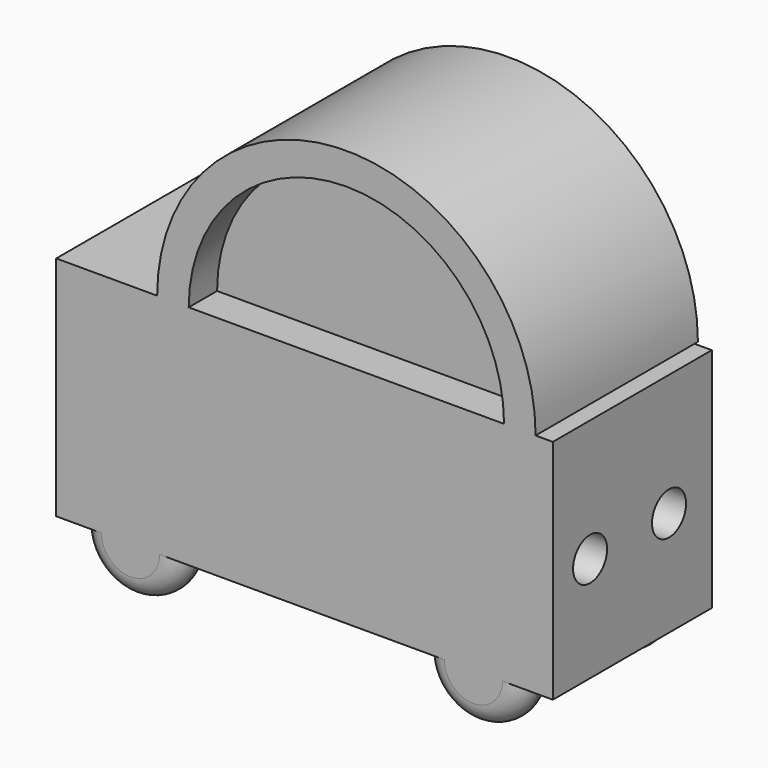
from build123d import *

# Parameters (mm, degrees)
F0_W      = 88.9
F0_H      = 40.64
F1_DEPTH  = 35.56
F3_DEPTH  = 7.62
F5_DEPTH  = 7.62
F7_DEPTH  = 36.322
F9_DEPTH  = 9.906
F11_DEPTH = 6.35
F13_DEPTH = 9.144
F14_R     = 3.81
F15_DEPTH = 6.604
F16_R     = 3.297802
F16_R_2   = 3.302
F17_DEPTH = 4.572
F18_R     = 3.679261


with BuildPart() as f1:
    # F0 (on Front) → F1 (new body)
    with BuildSketch(Plane.XZ):
        with Locations((1.685638, 1.512455)):
            Rectangle(F0_W, F0_H)
    extrude(amount=F1_DEPTH)

    # F2 (on face) → F3 (join)
    with BuildSketch(Plane.XZ.offset(35.56)):
        with BuildLine():
            Line((-20.58096, -18.807545), (-38.36096, -18.807545))
            ThreePointArc((-38.36096, -18.807545), (-29.47096, -27.697545), (-20.58096, -18.807545))
        make_face()
        with BuildLine():
            Line((40.796571, -18.807545), (23.016571, -18.807545))
            ThreePointArc((23.016571, -18.807545), (31.906571, -27.697545), (40.796571, -18.807545))
        make_face()
    extrude(amount=-F3_DEPTH)

    # F4 (on face) → F5 (join)
    with BuildSketch(Plane(origin=(0, 0, 0), x_dir=(-1, 0, 0), z_dir=(0, 1, 0))):
        with BuildLine():
            Line((-23.503698, -18.807545), (-41.283698, -18.807545))
            ThreePointArc((-41.283698, -18.807545), (-32.393698, -27.697545), (-23.503698, -18.807545))
        make_face()
        with BuildLine():
            Line((38.604519, -18.807545), (20.824519, -18.807545))
            ThreePointArc((20.824519, -18.807545), (29.714519, -27.697545), (38.604519, -18.807545))
        make_face()
    extrude(amount=-F5_DEPTH)

    # F6 (on face) → F7 (join)
    with BuildSketch(Plane.XZ.offset(35.56)):
        with BuildLine():
            Line((-24.699327, 21.832455), (43.047176, 21.832455))
            ThreePointArc((43.047176, 21.832455), (9.173924, 55.705706), (-24.699327, 21.832455))
        make_face()
    extrude(amount=-F7_DEPTH)

    # F8 (on face) → F9 (join)
    with BuildSketch(Plane.XZ.offset(35.56)):
        with BuildLine():
            Line((-18.899895, 24.207648), (34.604043, 24.207648))
            ThreePointArc((34.604043, 24.207648), (7.852074, 50.959617), (-18.899895, 24.207648))
        make_face()
    extrude(amount=-F9_DEPTH)

    # F10 (on face) → F11 (cut)
    with BuildSketch(Plane.XZ.offset(35.56)):
        with BuildLine():
            Line((-19.053006, 21.832455), (37.400854, 21.832455))
            ThreePointArc((37.400854, 21.832455), (9.173924, 50.059384), (-19.053006, 21.832455))
        make_face()
    extrude(amount=-F11_DEPTH, mode=Mode.SUBTRACT)

    # F12 (on face) → F13 (cut)
    with BuildSketch(Plane(origin=(0, 0.762, 0), x_dir=(-1, 0, 0), z_dir=(0, 1, 0))):
        with BuildLine():
            Line((-39.26131, 21.832455), (20.913462, 21.832455))
            ThreePointArc((20.913462, 21.832455), (-9.173924, 51.919841), (-39.26131, 21.832455))
        make_face()
    extrude(amount=-F13_DEPTH, mode=Mode.SUBTRACT)

    # F14 (on face) → F15 (cut)
    with BuildSketch(Plane.YZ.offset(46.135638)):
        with Locations((-27.224183, 0)):
            Circle(F14_R)
        with Locations((-9.559637, 0)):
            Circle(F14_R)
    extrude(amount=-F15_DEPTH, mode=Mode.SUBTRACT)

    # F16 (on face) → F17 (cut)
    with BuildSketch(Plane(origin=(-42.764362, 0, 0), x_dir=(0, -1, 0), z_dir=(-1, 0, 0))):
        with Locations((9.101178, 0)):
            Circle(F16_R)
        with Locations((26.068604, 0)):
            Circle(F16_R_2)
    extrude(amount=-F17_DEPTH, mode=Mode.SUBTRACT)

    # F18
    f18_edges = [f1.edges().sort_by_distance(p)[0] for p in [
        (-29.47096, -35.56, -27.697545),
        (-29.714519, -7.62, -27.697545),
        (-29.714519, 0, -27.697545),
        (32.393698, 0, -27.697545),
        (31.906571, -27.94, -27.697545),
        (32.393698, -7.62, -27.697545),
        (-29.47096, -27.94, -27.697545),
        (31.906571, -35.56, -27.697545),
    ]]
    fillet(f18_edges, radius=F18_R)


solid = f1.part
